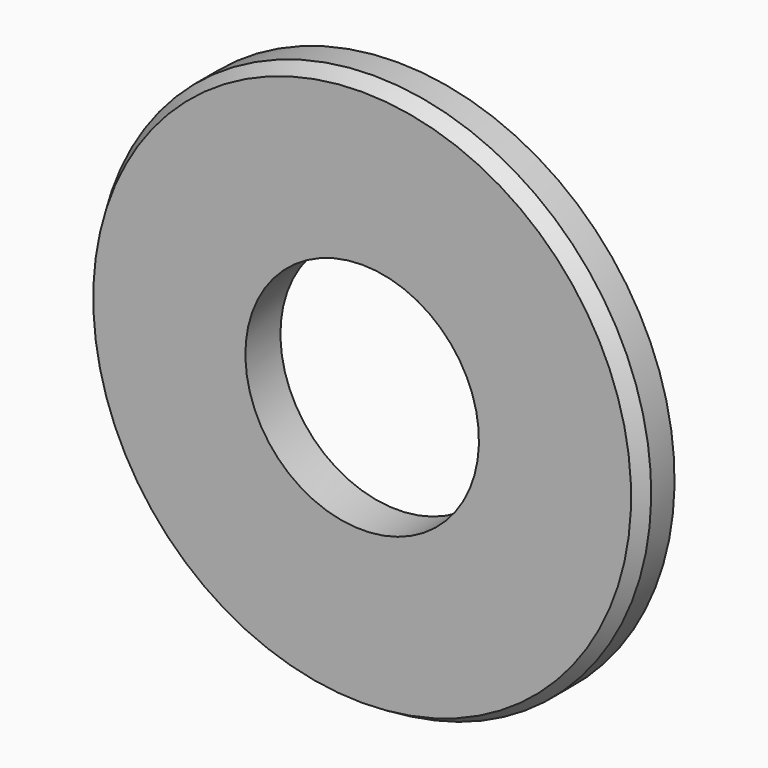
from build123d import *


with BuildPart() as f1:
    # F0 (on Right) → F1 (revolve)
    with BuildSketch(Plane.YZ):
        Polygon((-0.396875, 15.08125), (-1.190625, 14.622978), (-1.190625, 6.35), (1.190625, 6.35), (1.190625, 15.08125), align=None)
    revolve(axis=Axis((0, 0.197977, 0), (0, 1, 0)))


solid = f1.part
